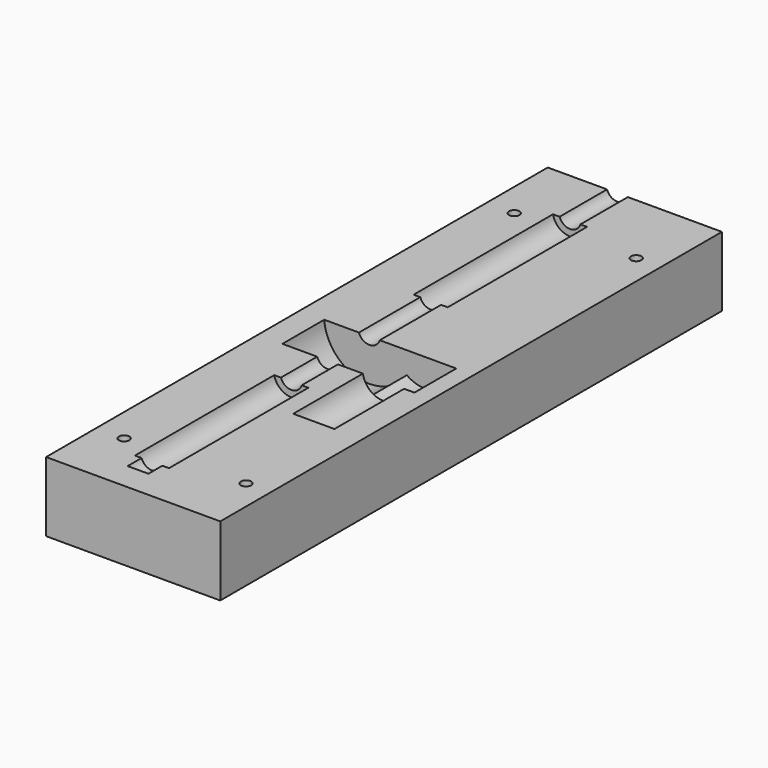
from build123d import *

# Parameters (mm, degrees)
SKETCH006_R     = 3.15
PAD002_DEPTH    = 190
SKETCH011_R     = 5
PAD007_DEPTH    = 50
SKETCH010_R     = 5
PAD006_DEPTH    = 50
SKETCH008_R     = 13
PAD004_DEPTH    = 15
SKETCH009_R     = 9
PAD005_DEPTH    = 15
SKETCH013_R     = 6
PAD008_DEPTH    = 26
BOX001_W        = 50
BOX001_H        = 180
BOX001_DEPTH    = 20
SKETCH015_R     = 1.5
POCKET001_DEPTH = 395.766885
SKETCH016_R     = 1.5
POCKET002_DEPTH = 395.766885
SKETCH017_R     = 3
POCKET003_DEPTH = 5
SKETCH018_R     = 3
POCKET004_DEPTH = 5


with BuildPart() as pad002:
    # Sketch006 → Pad002 (new body)
    with BuildSketch(Plane.XZ.offset(80)):
        Circle(SKETCH006_R)
    extrude(amount=-PAD002_DEPTH)


with BuildPart() as pad007:
    # Sketch011 → Pad007 (new body)
    with BuildSketch(Plane.XZ.offset(-75)):
        Circle(SKETCH011_R)
    extrude(amount=PAD007_DEPTH)


with BuildPart() as scassi_perno:
    # Sketch010 → Pad006 (new body)
    with BuildSketch(Plane.XZ.offset(25)):
        Circle(SKETCH010_R)
    extrude(amount=PAD006_DEPTH)

    # Fusion002: union Pad007
    add(pad007.part)


with BuildPart() as scasso_ruota_dentata:
    # Sketch008 → Pad004 (new body)
    with BuildSketch(Plane.XZ.offset(-3)):
        Circle(SKETCH008_R)
    extrude(amount=PAD004_DEPTH)


with BuildPart() as obj1:
    # Sketch009 → Pad005 (new body)
    with BuildSketch(Plane.XZ.offset(-3)):
        with Locations((15.997087, 9e-06)):
            Circle(SKETCH009_R)
    extrude(amount=PAD005_DEPTH)

    # Fusion001: union scasso_ruota_dentata
    add(scasso_ruota_dentata.part)


with BuildPart() as fusion:
    # Sketch013 → Pad008 (new body)
    with BuildSketch(Plane.XZ.offset(11)):
        with Locations((16.059561, 9e-06)):
            Circle(SKETCH013_R)
    extrude(amount=PAD008_DEPTH)

    # Fusion005: union scassi_perno, obj1
    add(scassi_perno.part)
    add(obj1.part)

    # Fusion: union Pad002
    add(pad002.part)


with BuildPart() as obj2:
    # Box001 → Box001 (new body)
    with BuildSketch(Plane(origin=(-20, -88, -21), x_dir=(1, 0, 0), z_dir=(0, 0, 1))):
        with Locations((25, 90)):
            Rectangle(BOX001_W, BOX001_H)
    extrude(amount=BOX001_DEPTH)

    # Cut001: cut Fusion
    add(fusion.part, mode=Mode.SUBTRACT)

    # Sketch015 → Pocket001 (cut, through all)
    with BuildSketch(Plane(origin=(0, 0, -21), x_dir=(1, 0, 0), z_dir=(0, 0, -1))):
        with Locations((23, 70)):
            Circle(SKETCH015_R)
    pocket001 = extrude(amount=-POCKET001_DEPTH, mode=Mode.SUBTRACT)

    # Mirrored: Pocket001 across Sketch015 H_Axis
    add(pocket001.mirror(Plane(origin=(0, 0, -21), x_dir=(0, 0, -1), z_dir=(0, -1, 0))), mode=Mode.SUBTRACT)

    # Sketch016 → Pocket002 (cut, through all)
    with BuildSketch(Plane(origin=(0, 0, -21), x_dir=(1, 0, 0), z_dir=(0, 0, -1))):
        with Locations((-12, 70)):
            Circle(SKETCH016_R)
    pocket002 = extrude(amount=-POCKET002_DEPTH, mode=Mode.SUBTRACT)

    # Mirrored001: Pocket002 across Sketch016 H_Axis
    add(pocket002.mirror(Plane(origin=(0, 0, -21), x_dir=(0, 0, -1), z_dir=(0, -1, 0))), mode=Mode.SUBTRACT)

    # Sketch017 → Pocket003 (cut)
    with BuildSketch(Plane(origin=(0, 0, -21), x_dir=(1, 0, 0), z_dir=(0, 0, -1))):
        with Locations((23, 70)):
            Circle(SKETCH017_R)
    pocket003 = extrude(amount=-POCKET003_DEPTH, mode=Mode.SUBTRACT)

    # Mirrored002: Pocket003 across Sketch017 H_Axis
    add(pocket003.mirror(Plane(origin=(0, 0, -21), x_dir=(0, 0, -1), z_dir=(0, -1, 0))), mode=Mode.SUBTRACT)

    # Sketch018 → Pocket004 (cut)
    with BuildSketch(Plane(origin=(0, 0, -21), x_dir=(1, 0, 0), z_dir=(0, 0, -1))):
        with Locations((-12, 70)):
            Circle(SKETCH018_R)
    pocket004 = extrude(amount=-POCKET004_DEPTH, mode=Mode.SUBTRACT)

    # Mirrored003: Pocket004 across Sketch018 H_Axis
    add(pocket004.mirror(Plane(origin=(0, 0, -21), x_dir=(0, 0, -1), z_dir=(0, -1, 0))), mode=Mode.SUBTRACT)


solid = obj2.part
